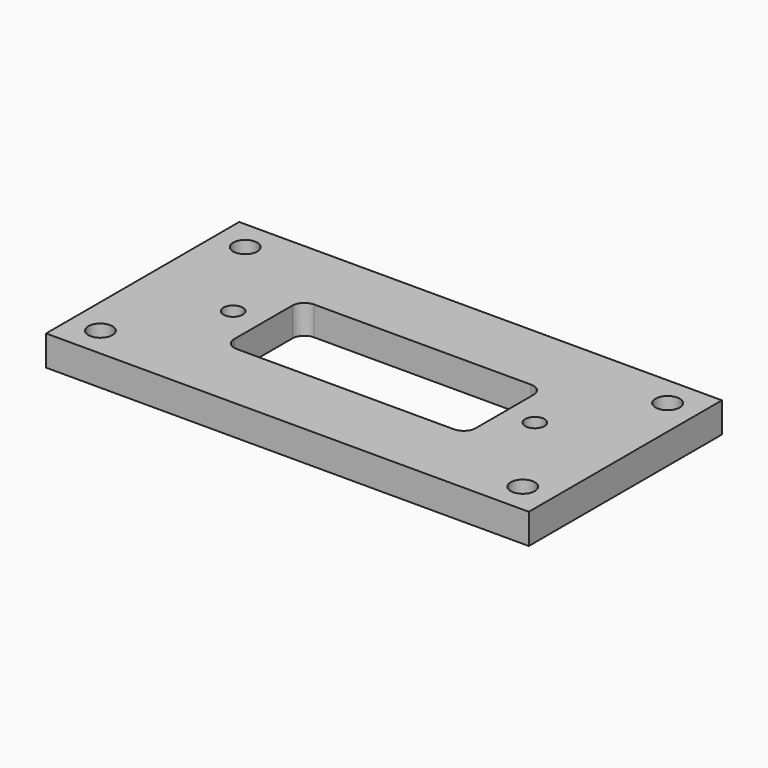
from build123d import *

# Parameters (mm, degrees)
F0_W           = 101.6
F0_H           = 50.8
F1_DEPTH       = 6.35
F3_DEPTH       = 0.254
F5_DEPTH       = 25.4
F5_DEPTH_BACK  = 25.4
F6_R           = 1.651
F7_DEPTH       = 0.381
F8_R           = 2.032
F9_DEPTH       = 4.826
F10_R          = 0.8255
F11_DEPTH      = 25.4
F11_DEPTH_BACK = 5.716
F12_R          = 2.54
F13_DEPTH      = 6.351


with BuildPart() as f1:
    # F0 (on Top) → F1 (new body)
    with BuildSketch(Plane.XY):
        with Locations((50.8, 25.4)):
            Rectangle(F0_W, F0_H)
    extrude(amount=F1_DEPTH)

    # F2 (on face) → F3 (cut)
    with BuildSketch(Plane(origin=(0, 0, 0), x_dir=(1, 0, 0), z_dir=(0, 0, -1))):
        with BuildLine():
            Line((11.43, -14.605), (11.43, -11.43))
            Line((11.43, -11.43), (14.605, -11.43))
            ThreePointArc((14.605, -11.43), (9.1849359697, -9.1849359697), (11.43, -14.605))
        make_face()
        with BuildLine():
            Line((14.605, -11.43), (11.43, -11.43))
            Line((11.43, -11.43), (11.43, -14.605))
            ThreePointArc((11.43, -14.605), (13.6750640303, -13.6750640303), (14.605, -11.43))
        make_face()
        with BuildLine():
            Line((86.995, -11.43), (14.605, -11.43))
            ThreePointArc((14.605, -11.43), (13.6750640303, -13.6750640303), (11.43, -14.605))
            Line((11.43, -14.605), (11.43, -36.195))
            ThreePointArc((11.43, -36.195), (13.6750640303, -37.1249359697), (14.605, -39.37))
            Line((14.605, -39.37), (86.995, -39.37))
            ThreePointArc((86.995, -39.37), (87.9249359697, -37.1249359697), (90.17, -36.195))
            Line((90.17, -36.195), (90.17, -14.605))
            ThreePointArc((90.17, -14.605), (87.9249359697, -13.6750640303), (86.995, -11.43))
        make_face()
        with BuildLine():
            ThreePointArc((93.345, -11.43), (90.17, -8.255), (86.995, -11.43))
            Line((86.995, -11.43), (90.17, -11.43))
            Line((90.17, -11.43), (90.17, -14.605))
            ThreePointArc((90.17, -14.605), (92.4150640303, -13.6750640303), (93.345, -11.43))
        make_face()
        with BuildLine():
            Line((90.17, -11.43), (86.995, -11.43))
            ThreePointArc((86.995, -11.43), (87.9249359697, -13.6750640303), (90.17, -14.605))
            Line((90.17, -14.605), (90.17, -11.43))
        make_face()
        with BuildLine():
            ThreePointArc((14.605, -39.37), (13.6750640303, -37.1249359697), (11.43, -36.195))
            Line((11.43, -36.195), (11.43, -39.37))
            Line((11.43, -39.37), (14.605, -39.37))
        make_face()
        with BuildLine():
            Line((11.43, -39.37), (11.43, -36.195))
            ThreePointArc((11.43, -36.195), (9.1849359697, -41.6150640303), (14.605, -39.37))
            Line((14.605, -39.37), (11.43, -39.37))
        make_face()
        with BuildLine():
            ThreePointArc((93.345, -39.37), (92.4150640303, -37.1249359697), (90.17, -36.195))
            Line((90.17, -36.195), (90.17, -39.37))
            Line((90.17, -39.37), (86.995, -39.37))
            ThreePointArc((86.995, -39.37), (90.17, -42.545), (93.345, -39.37))
        make_face()
        with BuildLine():
            Line((90.17, -39.37), (90.17, -36.195))
            ThreePointArc((90.17, -36.195), (87.9249359697, -37.1249359697), (86.995, -39.37))
            Line((86.995, -39.37), (90.17, -39.37))
        make_face()
    extrude(amount=-F3_DEPTH, mode=Mode.SUBTRACT)

    # F4 (on face) → F5 (cut, two sides)
    with BuildSketch(Plane(origin=(0, 0, 0.254), x_dir=(1, 0, 0), z_dir=(0, 0, -1))) as f5_sk:
        with BuildLine():
            ThreePointArc((25.4, -33.02), (26.1439487758, -34.8160512242), (27.94, -35.56))
            Line((27.94, -35.56), (73.66, -35.56))
            ThreePointArc((73.66, -35.56), (75.4560512242, -34.8160512242), (76.2, -33.02))
            Line((76.2, -33.02), (76.2, -17.78))
            ThreePointArc((76.2, -17.78), (75.4560512242, -15.9839487758), (73.66, -15.24))
            Line((73.66, -15.24), (27.94, -15.24))
            ThreePointArc((27.94, -15.24), (26.1439487758, -15.9839487758), (25.4, -17.78))
            Line((25.4, -17.78), (25.4, -33.02))
        make_face()
    extrude(amount=F5_DEPTH, mode=Mode.SUBTRACT)
    extrude(f5_sk.sketch, amount=-F5_DEPTH_BACK, mode=Mode.SUBTRACT)

    # F6 (on face) → F7 (cut)
    with BuildSketch(Plane(origin=(0, 0, 0.254), x_dir=(1, 0, 0), z_dir=(0, 0, -1))):
        with Locations((82.55, -25.4)):
            Circle(F6_R)
        with Locations((19.05, -25.4)):
            Circle(F6_R)
    extrude(amount=-F7_DEPTH, mode=Mode.SUBTRACT)

    # F8 (on face) → F9 (cut)
    with BuildSketch(Plane.XY.offset(6.35)):
        with Locations((19.05, 25.4)):
            Circle(F8_R)
        with Locations((82.55, 25.4)):
            Circle(F8_R)
    extrude(amount=-F9_DEPTH, mode=Mode.SUBTRACT)

    # F10 (on face) → F11 (cut, two sides)
    with BuildSketch(Plane(origin=(0, 0, 0.635), x_dir=(1, 0, 0), z_dir=(0, 0, -1))) as f11_sk:
        with Locations((19.05, -25.4)):
            Circle(F10_R)
        with Locations((82.55, -25.4)):
            Circle(F10_R)
    extrude(amount=F11_DEPTH, mode=Mode.SUBTRACT)
    extrude(f11_sk.sketch, amount=-F11_DEPTH_BACK, mode=Mode.SUBTRACT)

    # F12 (on face) → F13 (cut, through all)
    with BuildSketch(Plane(origin=(0, 0, 0), x_dir=(1, 0, 0), z_dir=(0, 0, -1))):
        with Locations((95.25, -6.35)):
            Circle(F12_R)
        with Locations((6.35, -6.35)):
            Circle(F12_R)
        with Locations((6.35, -44.45)):
            Circle(F12_R)
        with Locations((95.25, -44.45)):
            Circle(F12_R)
    extrude(amount=-F13_DEPTH, mode=Mode.SUBTRACT)


solid = f1.part
